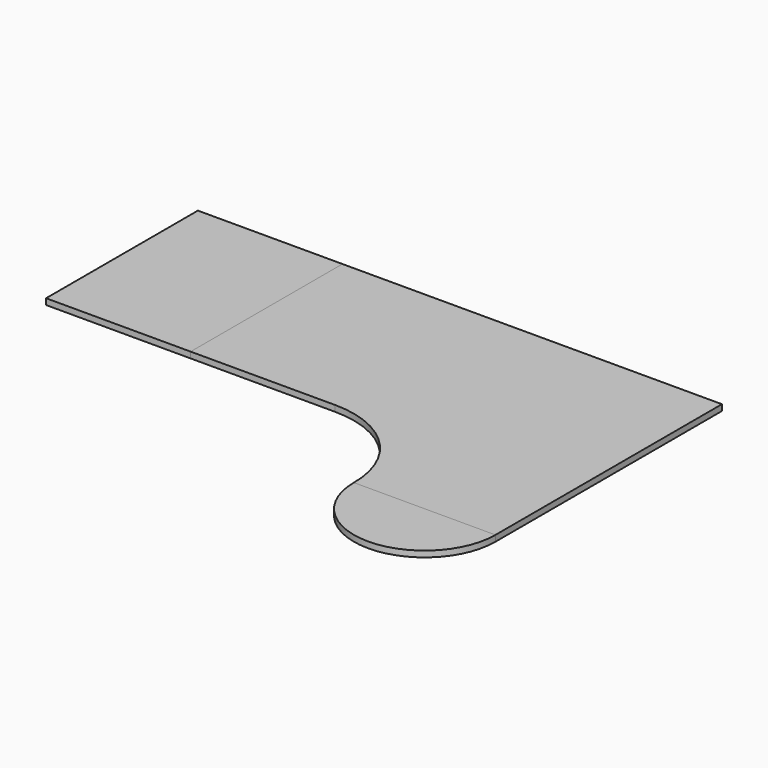
from build123d import *

# Parameters (mm, degrees)
F0_W     = 609.6
F0_H     = 800.1
F1_DEPTH = 25.4
F3_DEPTH = 25.4
F5_DEPTH = 25.4


with BuildPart() as f1:
    # F0 (on Top) → F1 (new body)
    with BuildSketch(Plane.XY):
        with Locations((-304.8, 400.05)):
            Rectangle(F0_W, F0_H)
    extrude(amount=F1_DEPTH)


with BuildPart() as f3:
    # F2 (on Top) → F3 (new body)
    with BuildSketch(Plane.XY):
        with BuildLine():
            Line((1600.2, 800.1), (0, 800.1))
            Line((0, 800.1), (0, 0))
            Line((0, 0), (609.6, 0))
            ThreePointArc((609.6, 0), (887.98794, -115.31206), (1003.3, -393.7))
            Line((1003.3, -393.7), (1600.2, -393.7))
            Line((1600.2, -393.7), (1600.2, 800.1))
        make_face()
    extrude(amount=F3_DEPTH)


with BuildPart() as f5:
    # F4 (on Top) → F5 (new body)
    with BuildSketch(Plane.XY):
        with BuildLine():
            ThreePointArc((1003.3, -393.7), (1301.75, -692.15), (1600.2, -393.7))
            Line((1600.2, -393.7), (1003.3, -393.7))
        make_face()
    extrude(amount=F5_DEPTH)


solid = Compound([f1.part, f3.part, f5.part])
